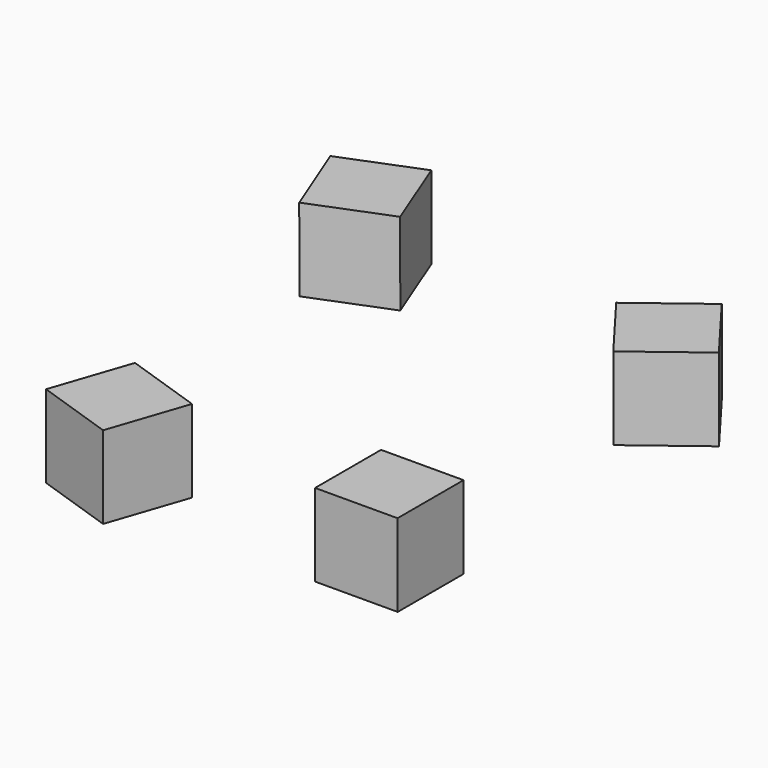
from build123d import *

# Parameters (mm, degrees)
BOX_W                  = 10
BOX_H                  = 10
BOX_DEPTH              = 10
BOX_ROLL_ANGLE         = 0
BOX_PITCH_ANGLE        = 2e-06
BOX_PLACEMENT_ANGLE    = -18.675319
BOX001_W               = 10
BOX001_H               = 10
BOX001_DEPTH           = 10
BOX001_PITCH_ANGLE     = -0.104678
BOX002_W               = 10
BOX002_H               = 10
BOX002_DEPTH           = 10
BOX002_ROLL_ANGLE      = -0.063102
BOX002_PITCH_ANGLE     = -0.083526
BOX002_PLACEMENT_ANGLE = 37.071065
BOX003_W               = 10
BOX003_H               = 10
BOX003_DEPTH           = 10
BOX003_ROLL_ANGLE      = -0.038374
BOX003_PITCH_ANGLE     = -0.097394
BOX003_PLACEMENT_ANGLE = 21.504935


with BuildPart() as cube:
    # Box → Box (new body)
    with BuildSketch(Plane.XY):
        with Locations((5, 5)):
            Rectangle(BOX_W, BOX_H)
    extrude(amount=BOX_DEPTH)


with BuildPart() as cube_1:
    # Box roll: moved
    add(cube.part.rotate(Axis((0, 0, 0), (1, 0, 0)), BOX_ROLL_ANGLE))


with BuildPart() as cube_2:
    # Box pitch: moved
    add(cube_1.part.rotate(Axis((0, 0, 0), (0, 1, 0)), BOX_PITCH_ANGLE))


with BuildPart() as cube_3:
    # Box placement: moved
    add(cube_2.part.moved(Location((-14.109955, 3.223112, 4e-06))).rotate(Axis((-14.109955, 3.223112, 4e-06), (0, 0, 1)), BOX_PLACEMENT_ANGLE))


with BuildPart() as cube001:
    # Box001 → Box001 (new body)
    with BuildSketch(Plane.XY):
        with Locations((5, 5)):
            Rectangle(BOX001_W, BOX001_H)
    extrude(amount=BOX001_DEPTH)


with BuildPart() as cube001_1:
    # Box001 pitch: moved
    add(cube001.part.rotate(Axis((0, 0, 0), (0, 1, 0)), BOX001_PITCH_ANGLE))


with BuildPart() as cube001_2:
    # Box001 placement: moved
    add(cube001_1.part.moved(Location((18.477344, 3.282045, 0.030748))))


with BuildPart() as cube002:
    # Box002 → Box002 (new body)
    with BuildSketch(Plane.XY):
        with Locations((5, 5)):
            Rectangle(BOX002_W, BOX002_H)
    extrude(amount=BOX002_DEPTH)


with BuildPart() as cube002_1:
    # Box002 roll: moved
    add(cube002.part.rotate(Axis((0, 0, 0), (1, 0, 0)), BOX002_ROLL_ANGLE))


with BuildPart() as cube002_2:
    # Box002 pitch: moved
    add(cube002_1.part.rotate(Axis((0, 0, 0), (0, 1, 0)), BOX002_PITCH_ANGLE))


with BuildPart() as cube002_3:
    # Box002 placement: moved
    add(cube002_2.part.moved(Location((23.044705, 42.768624, 0.039092))).rotate(Axis((23.044705, 42.768624, 0.039092), (0, 0, 1)), BOX002_PLACEMENT_ANGLE))


with BuildPart() as cube003:
    # Box003 → Box003 (new body)
    with BuildSketch(Plane.XY):
        with Locations((5, 5)):
            Rectangle(BOX003_W, BOX003_H)
    extrude(amount=BOX003_DEPTH)


with BuildPart() as cube003_1:
    # Box003 roll: moved
    add(cube003.part.rotate(Axis((0, 0, 0), (1, 0, 0)), BOX003_ROLL_ANGLE))


with BuildPart() as cube003_2:
    # Box003 pitch: moved
    add(cube003_1.part.rotate(Axis((0, 0, 0), (0, 1, 0)), BOX003_PITCH_ANGLE))


with BuildPart() as cube003_3:
    # Box003 placement: moved
    add(cube003_2.part.moved(Location((-19.326151, 48.134582, -0.037829))).rotate(Axis((-19.326151, 48.134582, -0.037829), (0, 0, 1)), BOX003_PLACEMENT_ANGLE))


solid = Compound([cube_3.part, cube001_2.part, cube002_3.part, cube003_3.part])
